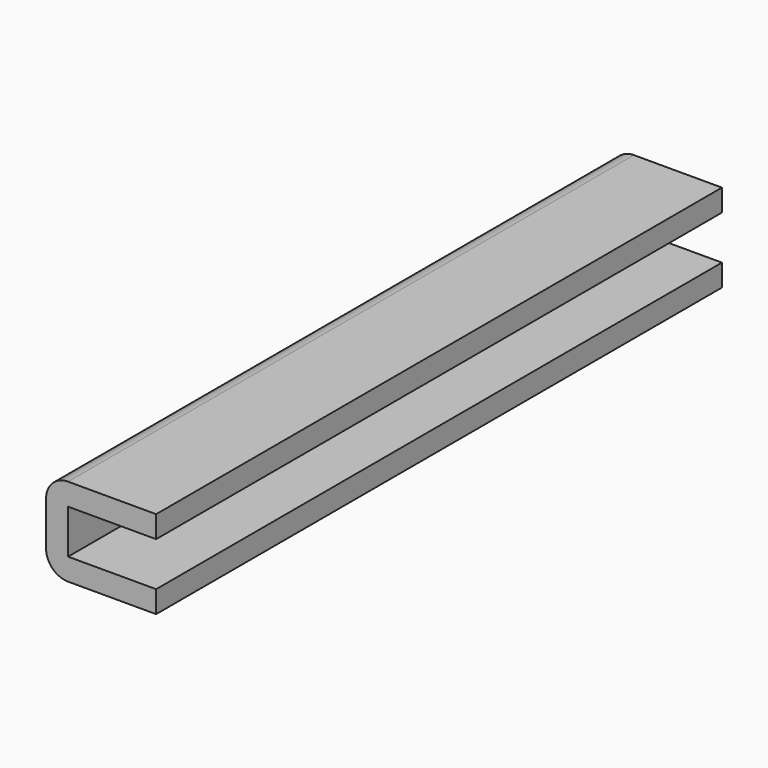
from build123d import *

# Parameters (mm, degrees)
F1_DEPTH = 24.1
F2_R     = 1.5


with BuildPart() as f1:
    # F0 (on Front) → F1 (new body, symmetric)
    with BuildSketch(Plane.XZ):
        Polygon((0, 1.5), (6, 1.5), (6, 3), (-1.5, 3), (-1.5, -3), (6, -3), (6, -1.5), (0, -1.5), align=None)
    extrude(amount=F1_DEPTH, both=True)

    # F2
    f2_edges = [f1.edges().sort_by_distance(p)[0] for p in [
        (-1.5, 0, 3),
        (-1.5, 0, -3),
    ]]
    fillet(f2_edges, radius=F2_R)


solid = f1.part
